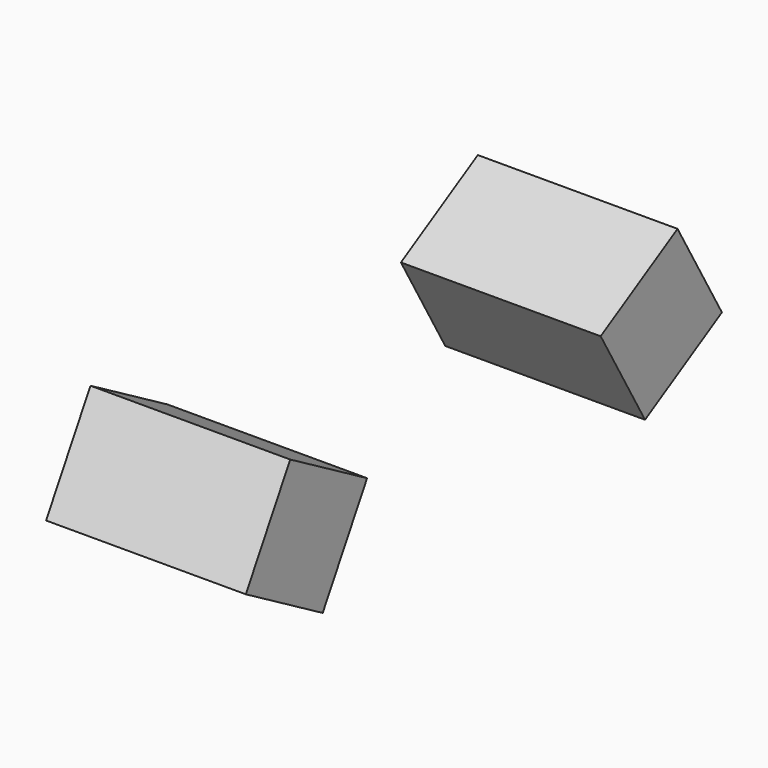
from build123d import *

# Parameters (mm, degrees)
BOX050_W               = 18
BOX050_H               = 10
BOX050_DEPTH           = 10
BOX050_PLACEMENT_ANGLE = 60
BOX051_W               = 18
BOX051_H               = 10
BOX051_DEPTH           = 10
BOX051_PLACEMENT_ANGLE = 30


with BuildPart() as obj1:
    # Box050 → Box050 (new body)
    with BuildSketch(Plane.XY):
        with Locations((9, 5)):
            Rectangle(BOX050_W, BOX050_H)
    extrude(amount=BOX050_DEPTH)


with BuildPart() as obj1_1:
    # Box050 placement: moved
    add(obj1.part.moved(Location((7.5, 13.762472, -28.079459))).rotate(Axis((7.5, 13.762472, -28.079459), (-1, 0, 0)), BOX050_PLACEMENT_ANGLE))


with BuildPart() as fusion051:
    # Box051 → Box051 (new body)
    with BuildSketch(Plane.XY):
        with Locations((9, 5)):
            Rectangle(BOX051_W, BOX051_H)
    extrude(amount=BOX051_DEPTH)


with BuildPart() as fusion051_1:
    # Box051 placement: moved
    add(fusion051.part.moved(Location((7.5, -26.20701, -32.305183))).rotate(Axis((7.5, -26.20701, -32.305183), (-1, 0, 0)), BOX051_PLACEMENT_ANGLE))

    # Fusion051: union obj1
    add(obj1_1.part)


solid = fusion051_1.part
